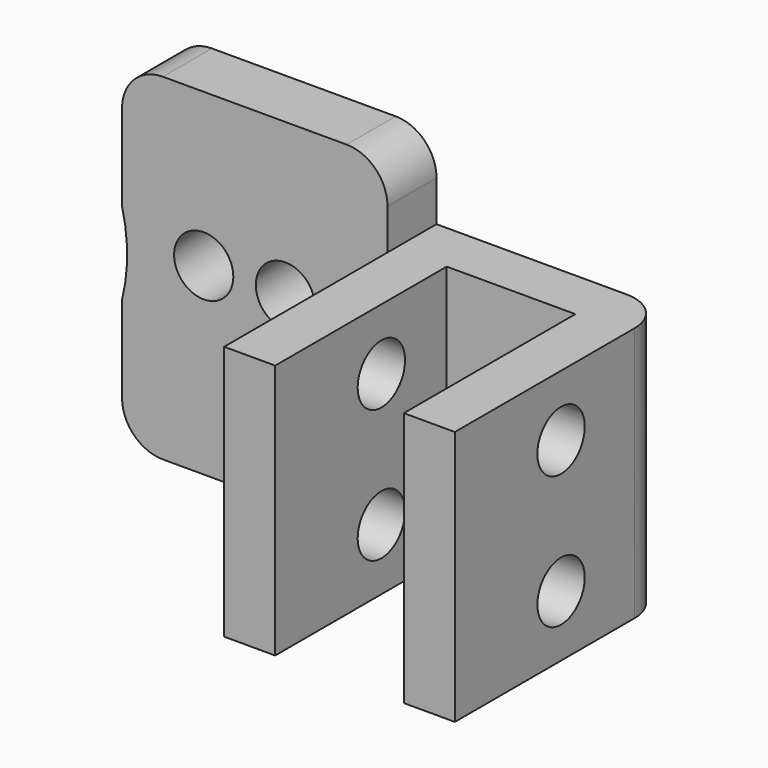
from build123d import *

# Parameters (mm, degrees)
F0_W      = 25
F0_H      = 3
F1_DEPTH  = 12.5
F2_W      = 25
F2_H      = 3
F3_DEPTH  = 4
F5_DEPTH  = 25
F6_DEPTH  = 15
F8_D      = 2.9
F9_DEPTH  = 25
F11_DEPTH = 25
F12_R     = 2
F13_D     = 2.9


with BuildPart() as f1:
    # F0 (on Top) → F1 (new body)
    with BuildSketch(Plane.XY):
        with Locations((-18.1500001341, 5.0000001341)):
            Rectangle(F0_W, F0_H)
        Polygon((3.15, 4), (3.15, -4), (3.15, -6.5000001341), (5.6500001341, -6.5000001341), (5.6500001341, 6.5000001341), (-5.6500001341, 6.5000001341), (-5.6500001341, 3.5000001341), (-5.6500001341, -6.5000001341), (-3.15, -6.5000001341), (-3.15, -4), (-3.15, 4), align=None)
    extrude(amount=F1_DEPTH)

    # F2 (on face) → F3 (join)
    with BuildSketch(Plane.XY.offset(12.5)):
        with Locations((-18.1500001341, 5.0000001341)):
            Rectangle(F2_W, F2_H)
    extrude(amount=F3_DEPTH)

    # F4 (on face) → F5 (cut)
    with BuildSketch(Plane(origin=(0, 6.5000001341, 0), x_dir=(-1, 0, 0), z_dir=(0, 1, 0))):
        with BuildLine():
            ThreePointArc((26.6500001341, 16.5), (28.7158126292, 16.2371721363), (30.6500001341, 15.4654348448))
            Line((30.6500001341, 15.4654348448), (30.6500001341, 16.5))
            Line((30.6500001341, 16.5), (26.6500001341, 16.5))
        make_face()
        with BuildLine():
            Line((30.6500001341, 0), (30.6500001341, 1.0345651552))
            ThreePointArc((30.6500001341, 1.0345651552), (28.7158126292, 0.2628278637), (26.6500001341, 0))
            Line((26.6500001341, 0), (30.6500001341, 0))
        make_face()
        with BuildLine():
            Line((30.6500001341, 6.1884471872), (30.6500001341, 10.3115528128))
            ThreePointArc((30.6500001341, 10.3115528128), (22.1500001341, 8.25), (30.6500001341, 6.1884471872))
        make_face()
    extrude(amount=-F5_DEPTH, mode=Mode.SUBTRACT)

    # F4 (on face) → F6 (join)
    with BuildSketch(Plane(origin=(0, 6.5000001341, 0), x_dir=(-1, 0, 0), z_dir=(0, 1, 0))):
        with BuildLine():
            ThreePointArc((30.6500001341, 6.1884471872), (22.1500001341, 8.25), (30.6500001341, 10.3115528128))
            Line((30.6500001341, 10.3115528128), (30.6500001341, 15.4654348448))
            ThreePointArc((30.6500001341, 15.4654348448), (28.7158126292, 16.2371721363), (26.6500001341, 16.5))
            ThreePointArc((26.6500001341, 16.5), (18.4000001341, 8.25), (26.6500001341, 0))
            ThreePointArc((26.6500001341, 0), (28.7158126292, 0.2628278637), (30.6500001341, 1.0345651552))
            Line((30.6500001341, 1.0345651552), (30.6500001341, 6.1884471872))
        make_face()
    extrude(amount=F6_DEPTH)

    # F8 (through all)
    with Locations(Plane.YZ.offset(5.6500001341)):
        with Locations((0.0002758615, 3), (0.0002758615, 9.5)):
            Hole(F8_D / 2)

    # F9 (cut): a face of the model
    f9_faces = [f1.faces().sort_by_distance(p)[0] for p in [
        (-30.444497701, 21.5000001341, 3.6115061712),
    ]]
    extrude(f9_faces, amount=-F9_DEPTH, mode=Mode.SUBTRACT)

    # F10 (on face) → F11 (cut)
    with BuildSketch(Plane(origin=(0, 6.5000001341, 0), x_dir=(-1, 0, 0), z_dir=(0, 1, 0))):
        with BuildLine():
            Line((18.6500001341, 16.5), (18.6500001341, 10.2655644371))
            ThreePointArc((18.6500001341, 10.2655644371), (21.5788023765, 14.7573384193), (26.6500001341, 16.5))
            Line((26.6500001341, 16.5), (18.6500001341, 16.5))
        make_face()
        with BuildLine():
            Line((18.6500001341, 6.2344355629), (18.6500001341, 0))
            Line((18.6500001341, 0), (26.6500001341, 0))
            ThreePointArc((26.6500001341, 0), (21.5788023765, 1.7426615807), (18.6500001341, 6.2344355629))
        make_face()
    extrude(amount=-F11_DEPTH, mode=Mode.SUBTRACT)

    # F12
    f12_edges = [f1.edges().sort_by_distance(p)[0] for p in [
        (-18.65, 5, 0),
        (-18.65, 5, 16.5),
        (-5.65, 5, 16.5),
        (5.65, 6.5, 6.25),
    ]]
    fillet(f12_edges, radius=F12_R)

    # F13 (through all)
    with Locations(Plane(origin=(0, 6.5000001341, 0), x_dir=(-1, 0, 0), z_dir=(0, 1, 0))):
        with Locations((14.6500001341, 9), (10.6500001341, 9)):
            Hole(F13_D / 2)


solid = f1.part
